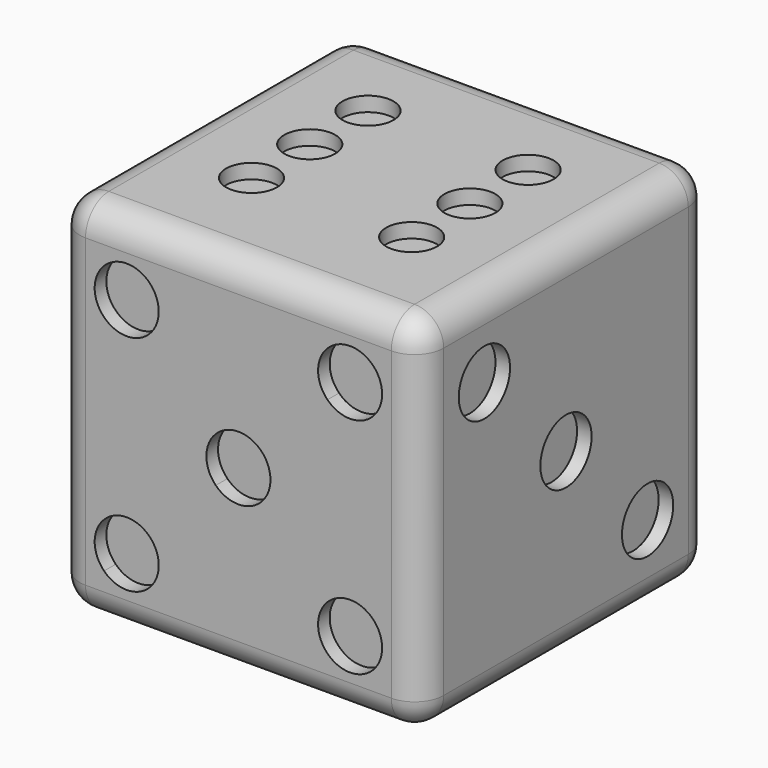
from build123d import *

# Parameters (mm, degrees)
F0_W      = 127
F0_H      = 127
F1_DEPTH  = 127
F2_R      = 10.16
F3_R      = 11.0292636168
F4_DEPTH  = 5.08
F6_DEPTH  = 5.08
F7_R      = 8.89
F8_DEPTH  = 5.08
F9_R      = 11.176
F10_DEPTH = 5.08
F12_DEPTH = 5.08
F14_DEPTH = 5.08


with BuildPart() as f1:
    # F0 (on Top) → F1 (new body)
    with BuildSketch(Plane.XY):
        with Locations((-72.0648214515, 42.2182492242)):
            Rectangle(F0_W, F0_H)
    extrude(amount=F1_DEPTH)

    # F2
    f2_edges = [f1.edges().sort_by_distance(p)[0] for p in [
        (-135.564821, -21.281751, 63.5),
        (-8.564821, -21.281751, 63.5),
        (-72.064821, -21.281751, 0),
        (-72.064821, -21.281751, 127),
        (-72.064821, 105.718249, 127),
        (-135.564821, 42.218249, 127),
        (-8.564821, 42.218249, 127),
        (-135.564821, 105.718249, 63.5),
        (-135.564821, 42.218249, 0),
        (-8.564821, 105.718249, 63.5),
        (-72.064821, 105.718249, 0),
        (-8.564821, 42.218249, 0),
    ]]
    fillet(f2_edges, radius=F2_R)

    # F3 (on face) → F4 (cut)
    with BuildSketch(Plane(origin=(0, 0, 0), x_dir=(1, 0, 0), z_dir=(0, 0, -1))):
        with Locations((-72.0648214515, -42.2182492242)):
            Circle(F3_R)
    extrude(amount=-F4_DEPTH, mode=Mode.SUBTRACT)

    # F5 (on face) → F6 (cut)
    with BuildSketch(Plane.XY.offset(127)):
        with BuildLine():
            Line((-100.0048214515, 61.2682492242), (-100.0048214515, 79.0482492242))
            ThreePointArc((-100.0048214515, 79.0482492242), (-108.8948214515, 70.1582492242), (-100.0048214515, 61.2682492242))
        make_face()
        with BuildLine():
            ThreePointArc((-91.1148214515, 70.1582492242), (-93.7186421668, 76.444428509), (-100.0048214515, 79.0482492242))
            Line((-100.0048214515, 79.0482492242), (-100.0048214515, 61.2682492242))
            ThreePointArc((-100.0048214515, 61.2682492242), (-93.7186421668, 63.8720699395), (-91.1148214515, 70.1582492242))
        make_face()
        with BuildLine():
            ThreePointArc((-100.0048214515, 53.6482492242), (-108.8948214515, 44.7582492242), (-100.0048214515, 35.8682492242))
            Line((-100.0048214515, 35.8682492242), (-100.0048214515, 53.6482492242))
        make_face()
        with BuildLine():
            Line((-100.0048214515, 53.6482492242), (-100.0048214515, 35.8682492242))
            ThreePointArc((-100.0048214515, 35.8682492242), (-93.7186421668, 38.4720699395), (-91.1148214515, 44.7582492242))
            ThreePointArc((-91.1148214515, 44.7582492242), (-93.7186421668, 51.044428509), (-100.0048214515, 53.6482492242))
        make_face()
        with BuildLine():
            Line((-44.1248214515, 61.2682492242), (-44.1248214515, 79.0482492242))
            ThreePointArc((-44.1248214515, 79.0482492242), (-53.0148214515, 70.1582492242), (-44.1248214515, 61.2682492242))
        make_face()
        with BuildLine():
            ThreePointArc((-35.2348214515, 70.1582492242), (-37.8386421668, 76.444428509), (-44.1248214515, 79.0482492242))
            Line((-44.1248214515, 79.0482492242), (-44.1248214515, 61.2682492242))
            ThreePointArc((-44.1248214515, 61.2682492242), (-37.8386421668, 63.8720699395), (-35.2348214515, 70.1582492242))
        make_face()
        with BuildLine():
            ThreePointArc((-44.1248214515, 53.6482492242), (-53.0148214515, 44.7582492242), (-44.1248214515, 35.8682492242))
            Line((-44.1248214515, 35.8682492242), (-44.1248214515, 53.6482492242))
        make_face()
        with BuildLine():
            Line((-44.1248214515, 53.6482492242), (-44.1248214515, 35.8682492242))
            ThreePointArc((-44.1248214515, 35.8682492242), (-37.8386421668, 38.4720699395), (-35.2348214515, 44.7582492242))
            ThreePointArc((-35.2348214515, 44.7582492242), (-37.8386421668, 51.044428509), (-44.1248214515, 53.6482492242))
        make_face()
        with BuildLine():
            ThreePointArc((-100.0048214515, 28.2482492242), (-108.8948214515, 19.3582492242), (-100.0048214515, 10.4682492242))
            Line((-100.0048214515, 10.4682492242), (-100.0048214515, 28.2482492242))
        make_face()
        with BuildLine():
            Line((-100.0048214515, 28.2482492242), (-100.0048214515, 10.4682492242))
            ThreePointArc((-100.0048214515, 10.4682492242), (-93.7186421668, 13.0720699395), (-91.1148214515, 19.3582492242))
            ThreePointArc((-91.1148214515, 19.3582492242), (-93.7186421668, 25.644428509), (-100.0048214515, 28.2482492242))
        make_face()
        with BuildLine():
            ThreePointArc((-44.1248214515, 28.2482492242), (-53.0148214515, 19.3582492242), (-44.1248214515, 10.4682492242))
            Line((-44.1248214515, 10.4682492242), (-44.1248214515, 28.2482492242))
        make_face()
        with BuildLine():
            Line((-44.1248214515, 28.2482492242), (-44.1248214515, 10.4682492242))
            ThreePointArc((-44.1248214515, 10.4682492242), (-37.8386421668, 13.0720699395), (-35.2348214515, 19.3582492242))
            ThreePointArc((-35.2348214515, 19.3582492242), (-37.8386421668, 25.644428509), (-44.1248214515, 28.2482492242))
        make_face()
    extrude(amount=-F6_DEPTH, mode=Mode.SUBTRACT)

    # F7 (on face) → F8 (cut)
    with BuildSketch(Plane(origin=(-135.5648214515, 0, 0), x_dir=(0, -1, 0), z_dir=(-1, 0, 0))):
        with Locations((-68.8882492242, 90.17)):
            Circle(F7_R)
        with Locations((-68.8882492242, 36.83)):
            Circle(F7_R)
        with Locations((-15.5482492242, 36.83)):
            Circle(F7_R)
        with Locations((-15.5482492242, 90.17)):
            Circle(F7_R)
    extrude(amount=-F8_DEPTH, mode=Mode.SUBTRACT)

    # F9 (on face) → F10 (cut)
    with BuildSketch(Plane.YZ.offset(-8.5648214515)):
        with Locations((6.6322155756, 99.0860336486)):
            Circle(F9_R)
        with Locations((77.8042828729, 27.9139663514)):
            Circle(F9_R)
        with Locations((42.2182492242, 63.5)):
            Circle(F9_R)
    extrude(amount=-F10_DEPTH, mode=Mode.SUBTRACT)

    # F11 (on face) → F12 (cut)
    with BuildSketch(Plane.XZ.offset(21.2817507758)):
        with BuildLine():
            ThreePointArc((-99.8604116578, 102.4715902063), (-106.7595416177, 112.7968678616), (-118.9390370444, 110.3742155928))
            Line((-118.9390370444, 110.3742155928), (-103.1337862713, 94.5689648197))
            ThreePointArc((-103.1337862713, 94.5689648197), (-100.7111340025, 98.1947201662), (-99.8604116578, 102.4715902063))
        make_face()
        with BuildLine():
            ThreePointArc((-40.9958566318, 32.4310351803), (-40.9958566318, 16.6257844072), (-25.1906058587, 16.6257844072))
            Line((-25.1906058587, 16.6257844072), (-40.9958566318, 32.4310351803))
        make_face()
        with BuildLine():
            Line((-40.9958566318, 32.4310351803), (-25.1906058587, 16.6257844072))
            ThreePointArc((-25.1906058587, 16.6257844072), (-22.7679535899, 20.2515397536), (-21.9172312452, 24.5284097937))
            ThreePointArc((-21.9172312452, 24.5284097937), (-28.8163612051, 34.8536874491), (-40.9958566318, 32.4310351803))
        make_face()
        with BuildLine():
            ThreePointArc((-103.1337862713, 32.4310351803), (-118.9390370444, 32.4310351803), (-118.9390370444, 16.6257844072))
            Line((-118.9390370444, 16.6257844072), (-103.1337862713, 32.4310351803))
        make_face()
        with BuildLine():
            Line((-103.1337862713, 32.4310351803), (-118.9390370444, 16.6257844072))
            ThreePointArc((-118.9390370444, 16.6257844072), (-106.7595416177, 14.2031321384), (-99.8604116578, 24.5284097937))
            ThreePointArc((-99.8604116578, 24.5284097937), (-100.7111340025, 28.8052798338), (-103.1337862713, 32.4310351803))
        make_face()
        with BuildLine():
            ThreePointArc((-64.162196065, 71.4026253865), (-72.0648214515, 74.676), (-79.9674468381, 71.4026253865))
            Line((-79.9674468381, 71.4026253865), (-72.0648214515, 63.5))
            Line((-72.0648214515, 63.5), (-64.162196065, 71.4026253865))
        make_face()
        with BuildLine():
            Line((-72.0648214515, 63.5), (-79.9674468381, 71.4026253865))
            ThreePointArc((-79.9674468381, 71.4026253865), (-83.2408214515, 63.5), (-79.9674468381, 55.5973746135))
            Line((-79.9674468381, 55.5973746135), (-72.0648214515, 63.5))
        make_face()
        with BuildLine():
            Line((-64.162196065, 71.4026253865), (-72.0648214515, 63.5))
            Line((-72.0648214515, 63.5), (-64.162196065, 55.5973746135))
            ThreePointArc((-64.162196065, 55.5973746135), (-61.7395437962, 59.2231299599), (-60.8888214515, 63.5))
            ThreePointArc((-60.8888214515, 63.5), (-61.7395437962, 67.7768700401), (-64.162196065, 71.4026253865))
        make_face()
        with BuildLine():
            Line((-64.162196065, 55.5973746135), (-72.0648214515, 63.5))
            Line((-72.0648214515, 63.5), (-79.9674468381, 55.5973746135))
            ThreePointArc((-79.9674468381, 55.5973746135), (-72.0648214515, 52.324), (-64.162196065, 55.5973746135))
        make_face()
        with BuildLine():
            Line((-103.1337862713, 94.5689648197), (-118.9390370444, 110.3742155928))
            ThreePointArc((-118.9390370444, 110.3742155928), (-118.9390370444, 94.5689648197), (-103.1337862713, 94.5689648197))
        make_face()
        with BuildLine():
            Line((-40.9958566318, 94.5689648197), (-25.1906058587, 110.3742155928))
            ThreePointArc((-25.1906058587, 110.3742155928), (-40.9958566318, 110.3742155928), (-40.9958566318, 94.5689648197))
        make_face()
        with BuildLine():
            ThreePointArc((-21.9172312452, 102.4715902063), (-22.7679535899, 106.7484602464), (-25.1906058587, 110.3742155928))
            Line((-25.1906058587, 110.3742155928), (-40.9958566318, 94.5689648197))
            ThreePointArc((-40.9958566318, 94.5689648197), (-28.8163612051, 92.1463125509), (-21.9172312452, 102.4715902063))
        make_face()
    extrude(amount=-F12_DEPTH, mode=Mode.SUBTRACT)

    # F13 (on face) → F14 (cut)
    with BuildSketch(Plane(origin=(0, 105.7182492242, 0), x_dir=(-1, 0, 0), z_dir=(0, 1, 0))):
        with BuildLine():
            ThreePointArc((90.875736666, 44.6890847855), (90.875736666, 28.8838340124), (106.6809874391, 28.8838340124))
            Line((106.6809874391, 28.8838340124), (90.875736666, 44.6890847855))
        make_face()
        with BuildLine():
            ThreePointArc((37.448655464, 98.1161659876), (37.448655464, 82.3109152145), (53.253906237, 82.3109152145))
            Line((53.253906237, 82.3109152145), (37.448655464, 98.1161659876))
        make_face()
        with BuildLine():
            Line((37.448655464, 98.1161659876), (53.253906237, 82.3109152145))
            ThreePointArc((53.253906237, 82.3109152145), (55.6765585058, 85.9366705609), (56.5272808505, 90.213540601))
            ThreePointArc((56.5272808505, 90.213540601), (49.6281508906, 100.5388182564), (37.448655464, 98.1161659876))
        make_face()
        with BuildLine():
            Line((90.875736666, 44.6890847855), (106.6809874391, 28.8838340124))
            ThreePointArc((106.6809874391, 28.8838340124), (109.1036397079, 32.5095893589), (109.9543620526, 36.786459399))
            ThreePointArc((109.9543620526, 36.786459399), (103.0552320927, 47.1117370543), (90.875736666, 44.6890847855))
        make_face()
    extrude(amount=-F14_DEPTH, mode=Mode.SUBTRACT)


solid = f1.part
